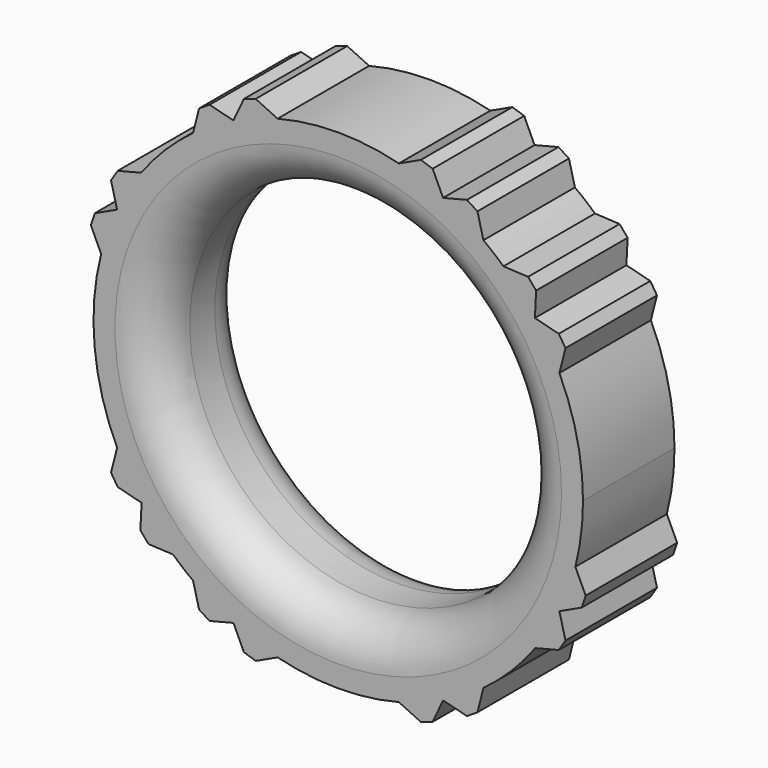
from build123d import *

# Parameters (mm, degrees)
F0_R     = 11.125
F1_DEPTH = 7
F2_R     = 2.54


with BuildPart() as f1:
    # F0 (on Front) → F1 (new body)
    with BuildSketch(Plane.XZ):
        with BuildLine():
            ThreePointArc((14.511314, -3.709508), (14.860825, -1.869371), (14.97794, 0))
            ThreePointArc((14.97794, 0), (14.612658, 3.28769), (13.53463, 6.415019))
            ThreePointArc((13.53463, 6.415019), (12.856111, 7.684991), (12.058783, 8.883942))
            Line((12.058783, 8.883942), (12.034945, 8.889992))
            Line((12.034945, 8.889992), (12.03617, 8.914555))
            ThreePointArc((12.03617, 8.914555), (11.124567, 10.029093), (10.110156, 11.050947))
            ThreePointArc((10.110156, 11.050947), (9.510409, 11.57112), (8.883942, 12.058783))
            ThreePointArc((8.883942, 12.058783), (7.684991, 12.856111), (6.415019, 13.53463))
            ThreePointArc((6.415019, 13.53463), (5.085764, 14.088069), (3.709508, 14.511314))
            ThreePointArc((3.709508, 14.511314), (0, 14.97794), (-3.709508, 14.511314))
            ThreePointArc((-3.709508, 14.511314), (-5.085764, 14.088069), (-6.415019, 13.53463))
            ThreePointArc((-6.415019, 13.53463), (-7.684991, 12.856111), (-8.883942, 12.058783))
            ThreePointArc((-8.883942, 12.058783), (-10.591003, 10.591003), (-12.058783, 8.883942))
            ThreePointArc((-12.058783, 8.883942), (-12.856111, 7.684991), (-13.53463, 6.415019))
            ThreePointArc((-13.53463, 6.415019), (-14.088069, 5.085764), (-14.511314, 3.709508))
            ThreePointArc((-14.511314, 3.709508), (-14.908731, -1.438202), (-13.53463, -6.415019))
            ThreePointArc((-13.53463, -6.415019), (-12.856111, -7.684991), (-12.058783, -8.883942))
            Line((-12.058783, -8.883942), (-12.034945, -8.889992))
            Line((-12.034945, -8.889992), (-12.03617, -8.914555))
            ThreePointArc((-12.03617, -8.914555), (-11.124567, -10.029093), (-10.110156, -11.050947))
            ThreePointArc((-10.110156, -11.050947), (-9.510409, -11.57112), (-8.883942, -12.058783))
            ThreePointArc((-8.883942, -12.058783), (-7.684991, -12.856111), (-6.415019, -13.53463))
            ThreePointArc((-6.415019, -13.53463), (-5.085764, -14.088069), (-3.709508, -14.511314))
            ThreePointArc((-3.709508, -14.511314), (0, -14.97794), (3.709508, -14.511314))
            ThreePointArc((3.709508, -14.511314), (5.085764, -14.088069), (6.415019, -13.53463))
            ThreePointArc((6.415019, -13.53463), (7.684991, -12.856111), (8.883942, -12.058783))
            ThreePointArc((8.883942, -12.058783), (10.591003, -10.591003), (12.058783, -8.883942))
            ThreePointArc((12.058783, -8.883942), (12.856111, -7.684991), (13.53463, -6.415019))
            ThreePointArc((13.53463, -6.415019), (14.088069, -5.085764), (14.511314, -3.709508))
        make_face()
        Circle(F0_R, mode=Mode.SUBTRACT)
        with BuildLine():
            Line((-11.6164, -10.975811), (-10.110156, -11.050947))
            ThreePointArc((-10.110156, -11.050947), (-11.124567, -10.029093), (-12.03617, -8.914555))
            Line((-12.03617, -8.914555), (-12.110081, -10.396236))
            Line((-12.110081, -10.396236), (-11.6164, -10.975811))
        make_face()
        with BuildLine():
            Line((-13.49673, -8.519042), (-12.058783, -8.883942))
            ThreePointArc((-12.058783, -8.883942), (-12.856111, -7.684991), (-13.53463, -6.415019))
            Line((-13.53463, -6.415019), (-13.905579, -7.876804))
            Line((-13.905579, -7.876804), (-13.49673, -8.519042))
        make_face()
        with BuildLine():
            Line((-7.876804, -13.905579), (-6.415019, -13.53463))
            ThreePointArc((-6.415019, -13.53463), (-7.684991, -12.856111), (-8.883942, -12.058783))
            Line((-8.883942, -12.058783), (-8.519042, -13.49673))
            Line((-8.519042, -13.49673), (-7.876804, -13.905579))
        make_face()
        with BuildLine():
            Line((-5.05358, -15.139258), (-3.709508, -14.511314))
            ThreePointArc((-3.709508, -14.511314), (-5.085764, -14.088069), (-6.415019, -13.53463))
            Line((-6.415019, -13.53463), (-5.776666, -14.900984))
            Line((-5.776666, -14.900984), (-5.05358, -15.139258))
        make_face()
        with BuildLine():
            Line((5.776666, -14.900984), (6.415019, -13.53463))
            ThreePointArc((6.415019, -13.53463), (5.085764, -14.088069), (3.709508, -14.511314))
            Line((3.709508, -14.511314), (5.05358, -15.139258))
            Line((5.05358, -15.139258), (5.776666, -14.900984))
        make_face()
        with BuildLine():
            Line((8.519042, -13.49673), (8.883942, -12.058783))
            ThreePointArc((8.883942, -12.058783), (7.684991, -12.856111), (6.415019, -13.53463))
            Line((6.415019, -13.53463), (7.876804, -13.905579))
            Line((7.876804, -13.905579), (8.519042, -13.49673))
        make_face()
        with BuildLine():
            Line((13.905579, -7.876804), (13.53463, -6.415019))
            ThreePointArc((13.53463, -6.415019), (12.856111, -7.684991), (12.058783, -8.883942))
            Line((12.058783, -8.883942), (13.49673, -8.519042))
            Line((13.49673, -8.519042), (13.905579, -7.876804))
        make_face()
        with BuildLine():
            Line((15.139258, -5.05358), (14.511314, -3.709508))
            ThreePointArc((14.511314, -3.709508), (14.088069, -5.085764), (13.53463, -6.415019))
            Line((13.53463, -6.415019), (14.900984, -5.776666))
            Line((14.900984, -5.776666), (15.139258, -5.05358))
        make_face()
        with BuildLine():
            ThreePointArc((-14.511314, 3.709508), (-14.088069, 5.085764), (-13.53463, 6.415019))
            Line((-13.53463, 6.415019), (-14.900984, 5.776666))
            Line((-14.900984, 5.776666), (-15.139258, 5.05358))
            Line((-15.139258, 5.05358), (-14.511314, 3.709508))
        make_face()
        with BuildLine():
            ThreePointArc((-13.53463, 6.415019), (-12.856111, 7.684991), (-12.058783, 8.883942))
            Line((-12.058783, 8.883942), (-13.49673, 8.519042))
            Line((-13.49673, 8.519042), (-13.905579, 7.876804))
            Line((-13.905579, 7.876804), (-13.53463, 6.415019))
        make_face()
        with BuildLine():
            ThreePointArc((12.058783, 8.883942), (12.856111, 7.684991), (13.53463, 6.415019))
            Line((13.53463, 6.415019), (13.905579, 7.876804))
            Line((13.905579, 7.876804), (13.49673, 8.519042))
            Line((13.49673, 8.519042), (12.058783, 8.883942))
        make_face()
        with BuildLine():
            ThreePointArc((10.110156, 11.050947), (11.124567, 10.029093), (12.03617, 8.914555))
            Line((12.03617, 8.914555), (12.110081, 10.396236))
            Line((12.110081, 10.396236), (11.6164, 10.975811))
            Line((11.6164, 10.975811), (10.110156, 11.050947))
        make_face()
        with BuildLine():
            ThreePointArc((6.415019, 13.53463), (7.684991, 12.856111), (8.883942, 12.058783))
            Line((8.883942, 12.058783), (8.519042, 13.49673))
            Line((8.519042, 13.49673), (7.876804, 13.905579))
            Line((7.876804, 13.905579), (6.415019, 13.53463))
        make_face()
        with BuildLine():
            ThreePointArc((3.709508, 14.511314), (5.085764, 14.088069), (6.415019, 13.53463))
            Line((6.415019, 13.53463), (5.776666, 14.900984))
            Line((5.776666, 14.900984), (5.05358, 15.139258))
            Line((5.05358, 15.139258), (3.709508, 14.511314))
        make_face()
        with BuildLine():
            ThreePointArc((-6.415019, 13.53463), (-5.085764, 14.088069), (-3.709508, 14.511314))
            Line((-3.709508, 14.511314), (-5.05358, 15.139258))
            Line((-5.05358, 15.139258), (-5.776666, 14.900984))
            Line((-5.776666, 14.900984), (-6.415019, 13.53463))
        make_face()
        with BuildLine():
            ThreePointArc((-8.883942, 12.058783), (-7.684991, 12.856111), (-6.415019, 13.53463))
            Line((-6.415019, 13.53463), (-7.876804, 13.905579))
            Line((-7.876804, 13.905579), (-8.519042, 13.49673))
            Line((-8.519042, 13.49673), (-8.883942, 12.058783))
        make_face()
    extrude(amount=F1_DEPTH)

    # F2
    f2_edges = [f1.edges().sort_by_distance(p)[0] for p in [
        (-11.125, -7, 0),
        (-11.125, 0, 0),
    ]]
    fillet(f2_edges, radius=F2_R)


solid = f1.part
